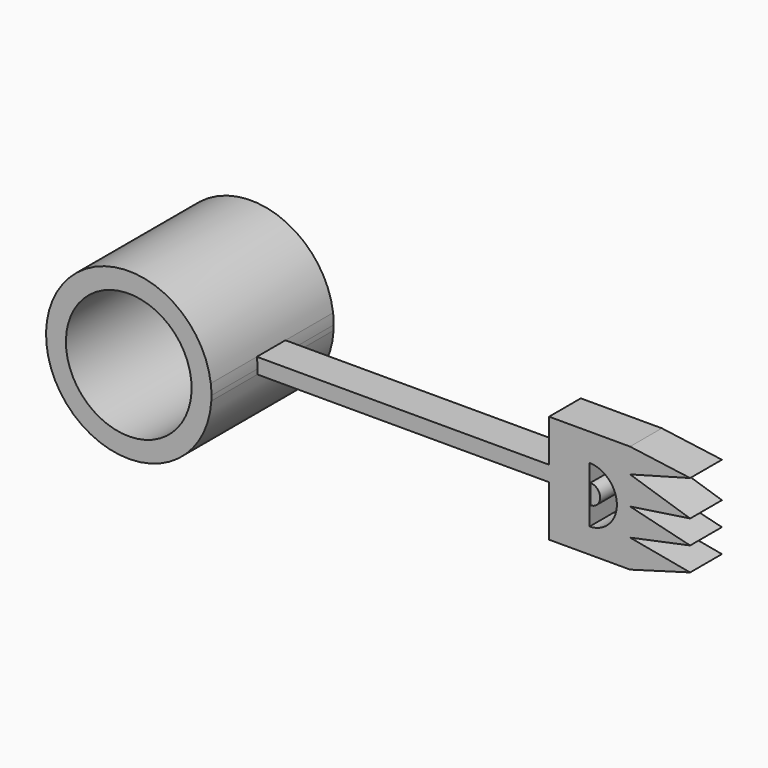
from build123d import *

# Parameters (mm, degrees)
F1_DEPTH = 19.558
F2_T     = -2.54
F3_START = 7.62
F3_DEPTH = 4.572
F4_START = 7.112
F4_DEPTH = 5.08
F5_START = 7.366
F5_DEPTH = 4.699


with BuildPart() as f1:
    # F0 (on Front) → F1 (new body)
    with BuildSketch(Plane.XZ):
        with BuildLine():
            Line((10.5598789448, -0.6324698916), (10.4941550919, 1.3355786754))
            ThreePointArc((10.4941550919, 1.3355786754), (-10.5729083556, -0.3530869534), (10.5598789448, -0.6324698916))
        make_face()
        with BuildLine():
            ThreePointArc((10.5598789448, -0.6324698916), (10.574070523, -0.3163764621), (10.5788024602, 0))
            ThreePointArc((10.5788024602, 0), (10.5576194096, 0.6691292056), (10.4941550919, 1.3355786754))
            Line((10.4941550919, 1.3355786754), (10.5598789448, -0.6324698916))
        make_face()
    extrude(amount=F1_DEPTH)

    # F2
    f2_openings = [f1.faces().sort_by_distance(p)[0] for p in [
        (0, -19.558, 0),
    ]]
    offset(amount=F2_T, openings=f2_openings)

    # F0 (on Front) → F3 (join)
    with BuildSketch(Plane.XZ.offset(F3_START)):
        with BuildLine():
            ThreePointArc((10.4941550919, 1.3355786754), (10.5576194096, 0.6691292056), (10.5788024602, 0))
            ThreePointArc((10.5788024602, 0), (10.574070523, -0.3163764621), (10.5598789448, -0.6324698916))
            Line((10.5598789448, -0.6324698916), (47.8745400906, -0.6324698916))
            Line((47.8745400906, -0.6324698916), (47.8745400906, 1.3355786754))
            Line((47.8745400906, 1.3355786754), (10.4941550919, 1.3355786754))
        make_face()
    extrude(amount=F3_DEPTH)

    # F0 (on Front) → F4 (join)
    with BuildSketch(Plane.XZ.offset(F4_START)):
        Polygon((47.8745400906, 6.7476513796), (47.8745400906, 1.3355786754), (47.8745400906, -0.6324698916), (47.8745400906, -7.1075903252), (58.2372918725, -7.1075903252), (65.9249648452, -4.9262144603), (58.2372918725, -3.502572421), (65.9249648452, -1.8891115906), (58.2372918725, 0), (65.9249648452, 1.1479911627), (58.2372918725, 3.6156391725), (65.9249648452, 5.7036471553), (58.2372918725, 6.7476513796), align=None)
        with BuildLine():
            ThreePointArc((53.0559159815, 3.2301100822), (56.5529149026, -0.3554173745), (53.0559159815, -3.9409448312))
            Line((53.0559159815, -3.9409448312), (53.0559159815, -1.589890453))
            Line((53.0559159815, -1.589890453), (53.0559159815, 0.9286483983))
            Line((53.0559159815, 0.9286483983), (53.0559159815, 3.2301100822))
        make_face(mode=Mode.SUBTRACT)
    extrude(amount=F4_DEPTH)

    # F0 (on Front) → F5 (join)
    with BuildSketch(Plane.XZ.offset(F5_START)):
        with BuildLine():
            Line((53.0559159815, 0.9286483983), (53.0559159815, -1.589890453))
            ThreePointArc((53.0559159815, -1.589890453), (54.3151854072, -0.3306210274), (53.0559159815, 0.9286483983))
        make_face()
    extrude(amount=F5_DEPTH)


solid = f1.part
